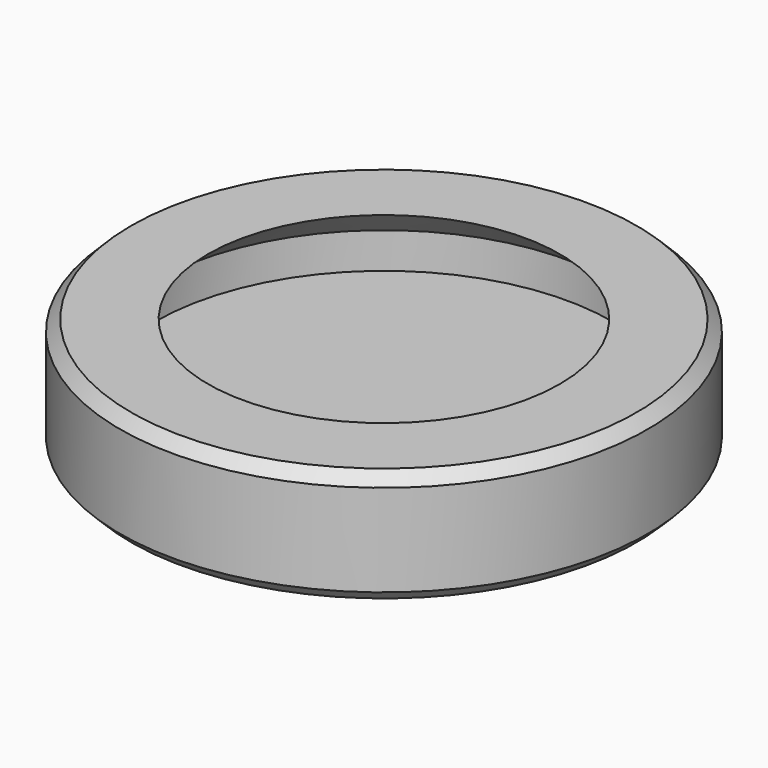
from build123d import *

# Parameters (mm, degrees)
F2_SIZE = 1.27
F3_SIZE = 1.27


with BuildPart() as f1:
    # F0 (on Front) → F1 (revolve)
    with BuildSketch(Plane.XZ):
        Polygon((-30, 0), (0, 0), (0, 4.293243), (-26, 4.293243), (-26, 8.360523), (-20, 13), (-30, 13), align=None)
    revolve(axis=Axis((0, 0, 2.146621), (0, 0, -1)))

    # F2
    f2_edges = [f1.edges().sort_by_distance(p)[0] for p in [
        (30, 0, 13),
    ]]
    chamfer(f2_edges, length=F2_SIZE)

    # F3
    f3_edges = [f1.edges().sort_by_distance(p)[0] for p in [
        (30, 0, 0),
    ]]
    chamfer(f3_edges, length=F3_SIZE)


solid = f1.part
